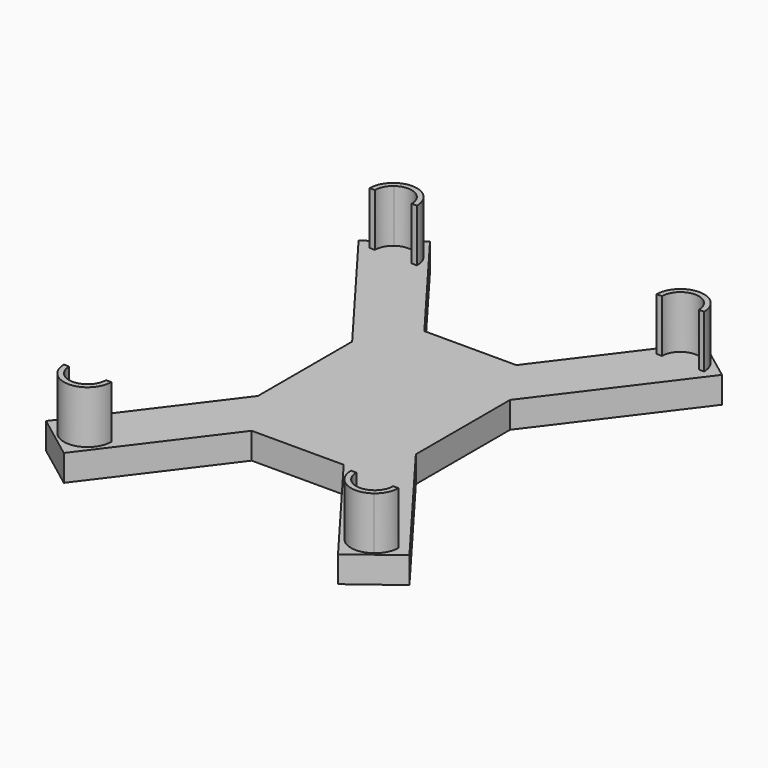
from build123d import *

# Parameters (mm, degrees)
F1_DEPTH = 5
F3_DEPTH = 10


with BuildPart() as f1:
    # F0 (on Top) → F1 (new body)
    with BuildSketch(Plane.XY):
        Polygon((15, 11.187869), (15, 20.5), (8.741002, 20.5), (-8.741002, 20.5), (-15, 20.5), (-15, 11.187869), (-15, -11.187869), (-15, -20.5), (-8.741002, -20.5), (8.741002, -20.5), (15, -20.5), (15, -11.187869), align=None)
        Polygon((8.741002, 20.5), (15, 20.5), (15, 11.187869), (34.513043, 37.101756), (26.044012, 43.478899), align=None)
        Polygon((-15, 20.5), (-8.741002, 20.5), (-26.044012, 43.478899), (-34.513043, 37.101756), (-15, 11.187869), align=None)
        Polygon((34.513043, -37.101756), (15, -11.187869), (15, -20.5), (8.741002, -20.5), (26.044012, -43.478899), align=None)
        Polygon((-15, -20.5), (-15, -11.187869), (-34.513043, -37.101756), (-26.044012, -43.478899), (-8.741002, -20.5), align=None)
    extrude(amount=F1_DEPTH)

    # F2 (on face) → F3 (join)
    with BuildSketch(Plane.XY.offset(5)):
        with BuildLine():
            Line((-23.77467, 36.293224), (-22.77467, 36.293224))
            ThreePointArc((-22.77467, 36.293224), (-25.26415, 40.319116), (-29.978142, 39.890617))
            Line((-29.978142, 39.890617), (-29.37737, 39.091196))
            ThreePointArc((-29.37737, 39.091196), (-25.710932, 39.424474), (-23.77467, 36.293224))
        make_face()
        with BuildLine():
            ThreePointArc((29.37737, 39.091196), (30.405919, 37.856961), (30.77467, 36.293224))
            Line((30.77467, 36.293224), (31.77467, 36.293224))
            ThreePointArc((31.77467, 36.293224), (31.300562, 38.303743), (29.978142, 39.890617))
            Line((29.978142, 39.890617), (29.37737, 39.091196))
        make_face()
        with BuildLine():
            Line((22.77467, 36.293224), (23.77467, 36.293224))
            ThreePointArc((23.77467, 36.293224), (25.710932, 39.424474), (29.37737, 39.091196))
            Line((29.37737, 39.091196), (29.978142, 39.890617))
            ThreePointArc((29.978142, 39.890617), (25.26415, 40.319116), (22.77467, 36.293224))
        make_face()
        with BuildLine():
            ThreePointArc((29.37737, -39.091196), (25.710932, -39.424474), (23.77467, -36.293224))
            Line((23.77467, -36.293224), (22.77467, -36.293224))
            ThreePointArc((22.77467, -36.293224), (25.26415, -40.319116), (29.978142, -39.890617))
            Line((29.978142, -39.890617), (29.37737, -39.091196))
        make_face()
        with BuildLine():
            Line((31.77467, -36.293224), (30.77467, -36.293224))
            ThreePointArc((30.77467, -36.293224), (30.405919, -37.856961), (29.37737, -39.091196))
            Line((29.37737, -39.091196), (29.978142, -39.890617))
            ThreePointArc((29.978142, -39.890617), (31.300562, -38.303743), (31.77467, -36.293224))
        make_face()
        with BuildLine():
            ThreePointArc((-29.37737, -39.091196), (-30.405919, -37.856961), (-30.77467, -36.293224))
            Line((-30.77467, -36.293224), (-31.77467, -36.293224))
            ThreePointArc((-31.77467, -36.293224), (-31.300562, -38.303743), (-29.978142, -39.890617))
            Line((-29.978142, -39.890617), (-29.37737, -39.091196))
        make_face()
        with BuildLine():
            Line((-22.77467, -36.293224), (-23.77467, -36.293224))
            ThreePointArc((-23.77467, -36.293224), (-25.710932, -39.424474), (-29.37737, -39.091196))
            Line((-29.37737, -39.091196), (-29.978142, -39.890617))
            ThreePointArc((-29.978142, -39.890617), (-25.26415, -40.319116), (-22.77467, -36.293224))
        make_face()
        with BuildLine():
            ThreePointArc((-29.978142, 39.890617), (-31.300562, 38.303743), (-31.77467, 36.293224))
            Line((-31.77467, 36.293224), (-30.77467, 36.293224))
            ThreePointArc((-30.77467, 36.293224), (-30.405919, 37.856961), (-29.37737, 39.091196))
            Line((-29.37737, 39.091196), (-29.978142, 39.890617))
        make_face()
    extrude(amount=F3_DEPTH)


solid = f1.part
